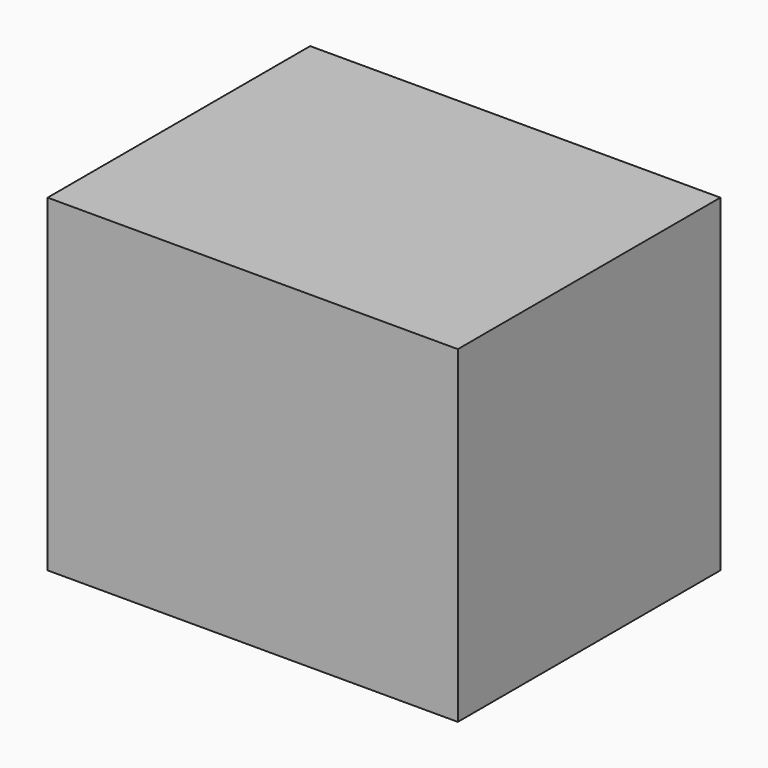
from build123d import *

# Parameters (mm, degrees)
BOX_W     = 50
BOX_H     = 40
BOX_DEPTH = 40


with BuildPart() as obj1:
    # Sphere → Sphere (revolve)
    with BuildSketch(Plane(origin=(20, 20, 20), x_dir=(1, 0, 0), z_dir=(0, -1, 0))):
        with BuildLine():
            ThreePointArc((0, -1), (1, 0), (0, 1))
            Line((0, 1), (0, -1))
        make_face()
    revolve(axis=Axis((20, 20, 20), (0, 0, 1)))


with BuildPart() as cut:
    # Box → Box (new body)
    with BuildSketch(Plane.XY):
        with Locations((25, 20)):
            Rectangle(BOX_W, BOX_H)
    extrude(amount=BOX_DEPTH)

    # Cut: cut obj1
    add(obj1.part, mode=Mode.SUBTRACT)


solid = cut.part
